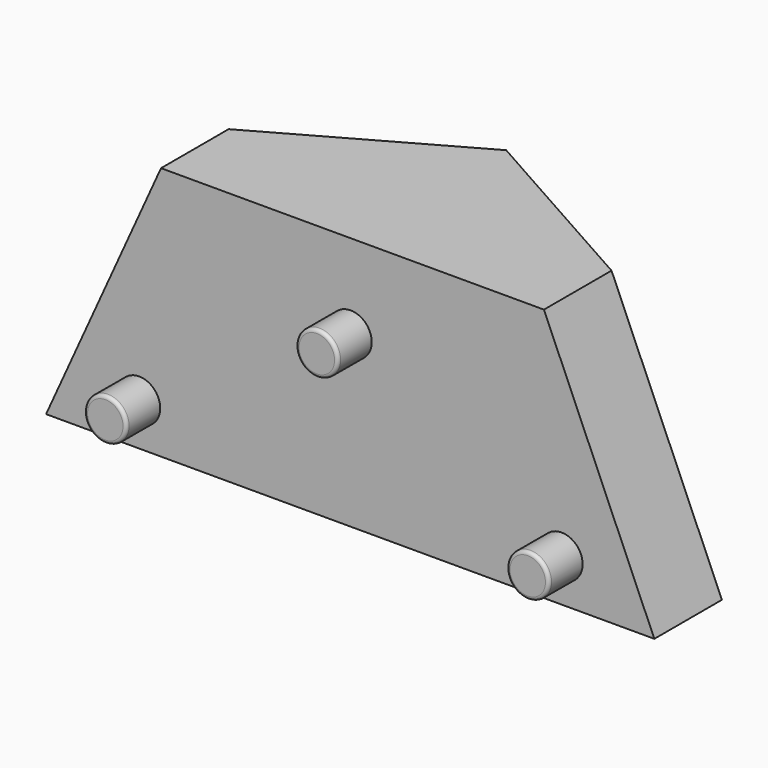
from build123d import *

# Parameters (mm, degrees)
F4_R     = 1.5875
F5_DEPTH = 3.175
F6_R     = 0.254


with BuildPart() as f3:
    # F2 (on offset) → F3 section 0
    with BuildSketch(Plane.XY.offset(19.05)):
        Polygon((-47.3329591776, -20.2521206051), (-47.3329591776, -26.6021206051), (-18.5506157587, -26.6021206051), (-18.5506157587, -20.2521206051), (-32.9417874681, -12.1605029158), align=None)
    # F0 (on Top) → F3 section 1
    with BuildSketch(Plane.XY):
        Polygon((-55.9284321933, -20.3077479873), (-55.9284321933, -26.6577479873), (-10.2084321933, -26.6577479873), (-10.2084321933, -20.3077479873), (-33.0684321933, -9.2361446707), align=None)
    loft()

    # F4 (on face) → F5 (join)
    with BuildSketch(Plane(origin=(0, -26.6575206833, 0.0778418945), x_dir=(1, 0, 0), z_dir=(0, -0.9999957366, 0.0029200601))):
        with Locations((-48.9434321933, 3.0971577737)):
            Circle(F4_R)
        with Locations((-33.0684321933, 12.6221577737)):
            Circle(F4_R)
        with Locations((-17.1934321933, 3.0971577737)):
            Circle(F4_R)
    extrude(amount=F5_DEPTH)

    # F6
    f6_edges = [f3.edges().sort_by_distance(p)[0] for p in [
        (-50.530932, -29.823463, 3.184258),
        (-34.655932, -29.79565, 12.709217),
        (-18.780932, -29.823463, 3.184258),
    ]]
    fillet(f6_edges, radius=F6_R)


solid = f3.part
